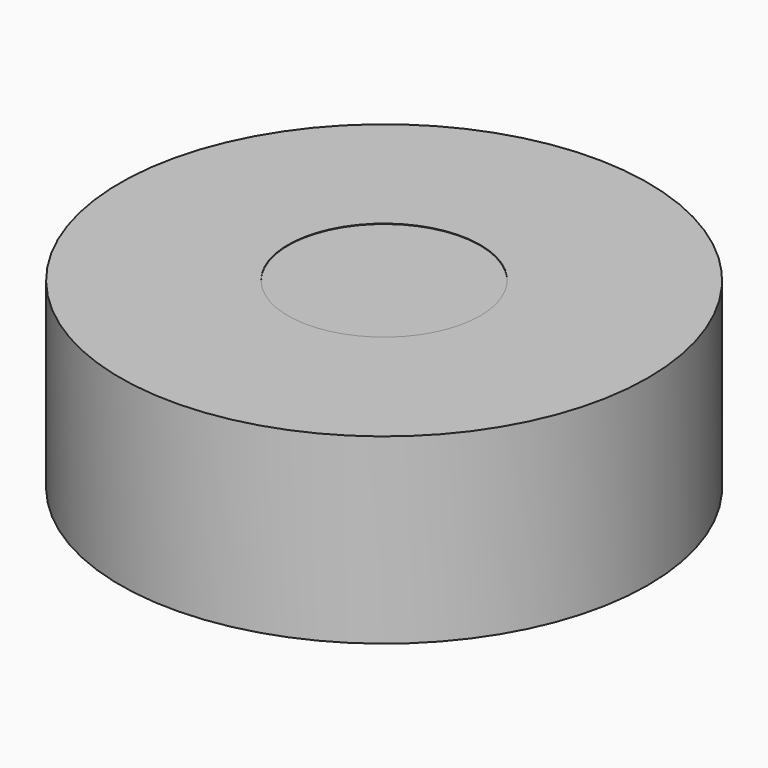
from build123d import *

# Parameters (mm, degrees)
F0_R     = 4.0132
F1_DEPTH = 3.02895
F0_R_2   = 11.0236
F2_DEPTH = 7.62
F3_R     = 4.0132
F4_DEPTH = 4.572


with BuildPart() as f1:
    # F0 (on Top) → F1 (new body, symmetric)
    with BuildSketch(Plane.XY):
        Circle(F0_R)
    extrude(amount=F1_DEPTH, both=True)


with BuildPart() as f2:
    # F0 (on Top) → F2 (new body)
    with BuildSketch(Plane.XY):
        Circle(F0_R_2)
        Circle(F0_R, mode=Mode.SUBTRACT)
    extrude(amount=F2_DEPTH)


with BuildPart() as f4:
    # F3 (on face) → F4 (new body)
    with BuildSketch(Plane.XY.offset(3.02895)):
        Circle(F3_R)
    extrude(amount=F4_DEPTH)


solid = Compound([f1.part, f2.part, f4.part])
